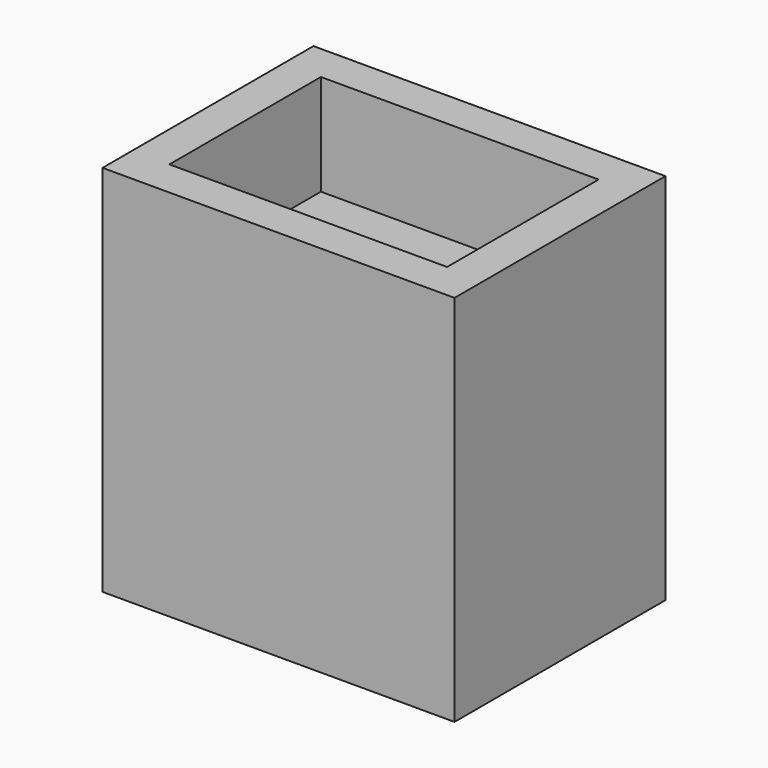
from build123d import *

# Parameters (mm, degrees)
F0_W     = 139.7
F0_H     = 95.25
F1_DEPTH = 137.0076
F0_W_2   = 18.6944
F2_DEPTH = 187.8076


with BuildPart() as f1:
    # F0 (on Top) → F1 (new body)
    with BuildSketch(Plane.XY):
        with Locations((88.5444, -66.3194)):
            Rectangle(F0_W, F0_H)
    extrude(amount=F1_DEPTH)

    # F0 (on Top) → F2 (join)
    with BuildSketch(Plane.XY):
        Polygon((177.0888, 0), (0, 0), (0, -18.6944), (18.6944, -18.6944), (158.3944, -18.6944), (177.0888, -18.6944), align=None)
        with Locations((167.7416, -66.3194)):
            Rectangle(F0_W_2, F0_H)
        Polygon((18.6944, -113.9444), (0, -113.9444), (0, -132.6388), (177.0888, -132.6388), (177.0888, -113.9444), (158.3944, -113.9444), align=None)
        with Locations((9.3472, -66.3194)):
            Rectangle(F0_W_2, F0_H)
    extrude(amount=F2_DEPTH)


solid = f1.part
